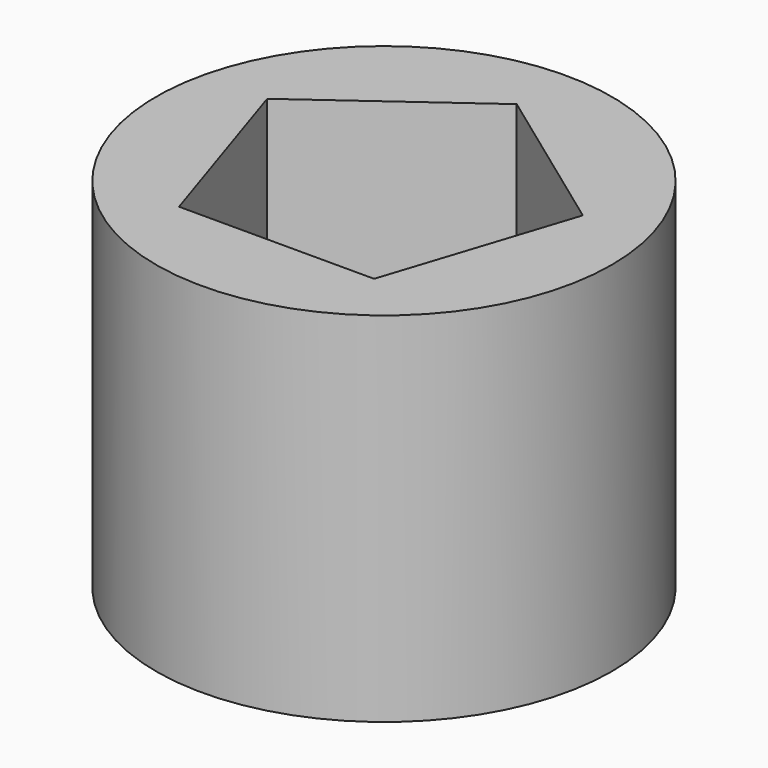
from build123d import *

# Parameters (mm, degrees)
F0_R     = 7
F1_DEPTH = 11


with BuildPart() as f1:
    # F0 (on Top) → F1 (new body)
    with BuildSketch(Plane.XY):
        Circle(F0_R)
        Polygon((0, 5.1), (4.850388, 1.575987), (2.997705, -4.125987), (-2.997705, -4.125987), (-4.850388, 1.575987), align=None, mode=Mode.SUBTRACT)
    extrude(amount=F1_DEPTH)


solid = f1.part
